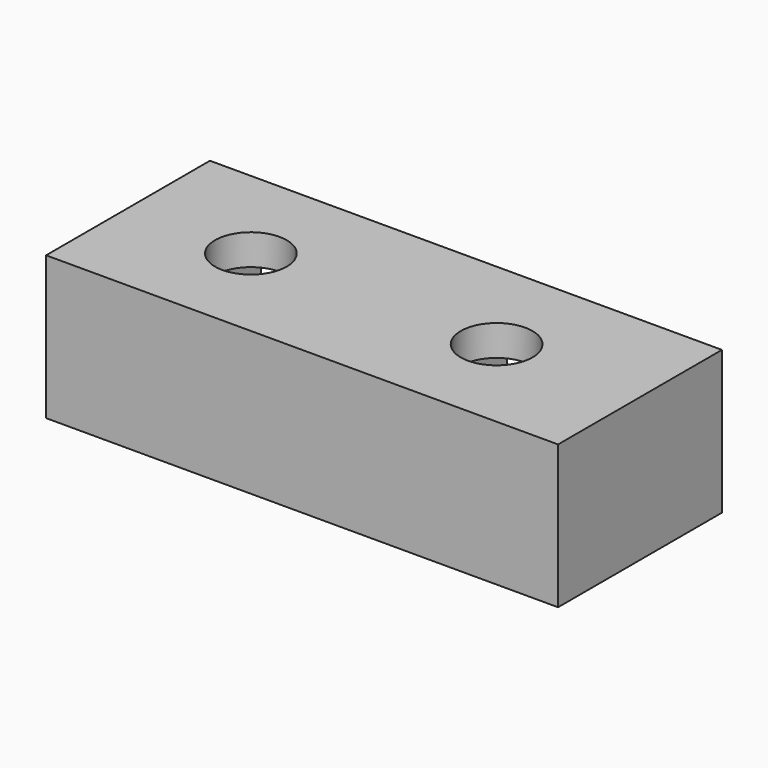
from build123d import *

# Parameters (mm, degrees)
CYLINDER028_R          = 1.75
CYLINDER028_DEPTH      = 20
CYLINDER027_R          = 1.75
CYLINDER027_DEPTH      = 20
BOX045_W               = 8
BOX045_H               = 3
BOX045_DEPTH           = 6
BOX044_W               = 8
BOX044_H               = 3
BOX044_DEPTH           = 6
BOX043_W               = 10
BOX043_H               = 7
BOX043_DEPTH           = 25
CUT044_ROLL_ANGLE      = -90
CUT044_PLACEMENT_ANGLE = 90


with BuildPart() as cylinder063:
    # Cylinder028 → Cylinder028 (new body)
    with BuildSketch(Plane(origin=(40, -18, 77), x_dir=(1, 0, 0), z_dir=(0, 0, 1))):
        Circle(CYLINDER028_R)
    extrude(amount=CYLINDER028_DEPTH)


with BuildPart() as cylinder062:
    # Cylinder027 → Cylinder027 (new body)
    with BuildSketch(Plane(origin=(28, -18, 77), x_dir=(1, 0, 0), z_dir=(0, 0, 1))):
        Circle(CYLINDER027_R)
    extrude(amount=CYLINDER027_DEPTH)


with BuildPart() as cube044:
    # Box045 → Box045 (new body)
    with BuildSketch(Plane(origin=(32, 5.5, 26.5), x_dir=(1, 0, 0), z_dir=(0, 0, 1))):
        with Locations((4, 1.5)):
            Rectangle(BOX045_W, BOX045_H)
    extrude(amount=BOX045_DEPTH)


with BuildPart() as cube043:
    # Box044 → Box044 (new body)
    with BuildSketch(Plane(origin=(32, 5.5, 38.5), x_dir=(1, 0, 0), z_dir=(0, 0, 1))):
        with Locations((4, 1.5)):
            Rectangle(BOX044_W, BOX044_H)
    extrude(amount=BOX044_DEPTH)


with BuildPart() as obj1:
    # Box043 → Box043 (new body)
    with BuildSketch(Plane(origin=(30, 4, 22), x_dir=(1, 0, 0), z_dir=(0, 0, 1))):
        with Locations((5, 3.5)):
            Rectangle(BOX043_W, BOX043_H)
    extrude(amount=BOX043_DEPTH)

    # Cut043: cut Cube043
    add(cube043.part, mode=Mode.SUBTRACT)

    # Cut044: cut Cube044
    add(cube044.part, mode=Mode.SUBTRACT)


with BuildPart() as obj1_1:
    # Cut044 roll: moved
    add(obj1.part.rotate(Axis((0, 0, 0), (1, 0, 0)), CUT044_ROLL_ANGLE))


with BuildPart() as obj1_2:
    # Cut044 placement: moved
    add(obj1_1.part.moved(Location((69, -53, 97))).rotate(Axis((69, -53, 97), (0, 0, 1)), CUT044_PLACEMENT_ANGLE))

    # Cut051: cut Cylinder062
    add(cylinder062.part, mode=Mode.SUBTRACT)

    # Cut052: cut Cylinder063
    add(cylinder063.part, mode=Mode.SUBTRACT)


with BuildPart() as obj1_3:
    # Cut052 placement: moved
    add(obj1_2.part.moved(Location((0, 0, 2))))


solid = obj1_3.part
